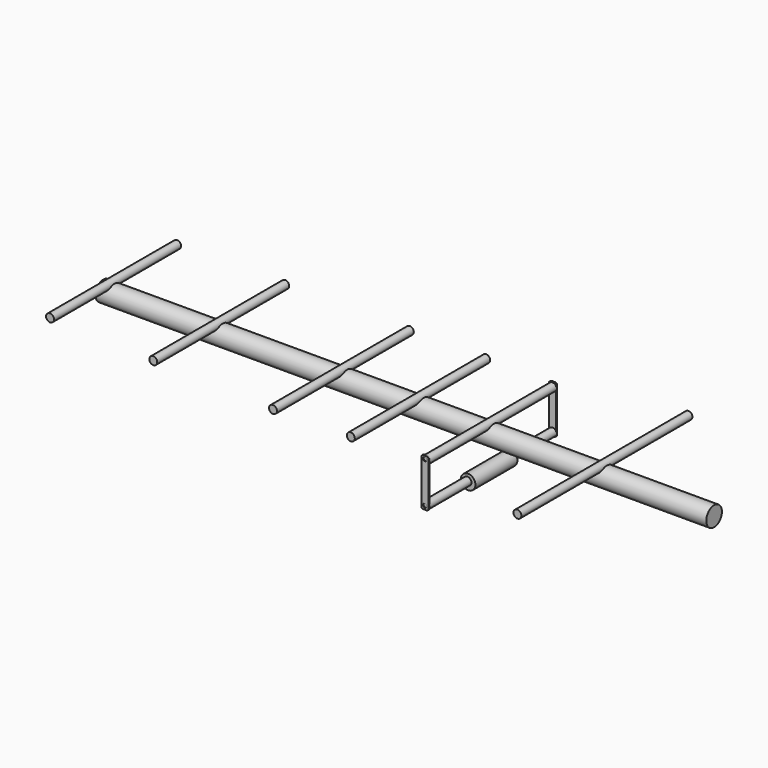
from build123d import *

# Parameters (mm, degrees)
CYLINDER001_R             = 6.5
CYLINDER001_DEPTH         = 350
CYLINDER002_R             = 6.5
CYLINDER002_DEPTH         = 277
CYLINDER003_R             = 6.5
CYLINDER003_DEPTH         = 260
CYLINDER004_R             = 6.5
CYLINDER004_DEPTH         = 260
CYLINDER006_R             = 3
CYLINDER006_DEPTH         = 4
CYLINDER005_R             = 3
CYLINDER005_DEPTH         = 4
BOX_W                     = 78
BOX_H                     = 2
BOX_DEPTH                 = 12
FILLET_R                  = 3.2
CYLINDER008_R             = 3
CYLINDER008_DEPTH         = 4
CYLINDER007_R             = 3
CYLINDER007_DEPTH         = 4
BOX001_W                  = 78
BOX001_H                  = 2
BOX001_DEPTH              = 12
FILLET001_R               = 3.2
CYLINDER009_R             = 12
CYLINDER009_DEPTH         = 86
CYLINDER010_R             = 6.5
CYLINDER010_DEPTH         = 280
CYLINDER011_R             = 6.5
CYLINDER011_DEPTH         = 270
CYLINDER012_R             = 6.5
CYLINDER012_DEPTH         = 260
CYLINDER_R                = 16
CYLINDER_DEPTH            = 1000
FUSION002_PLACEMENT_ANGLE = 90


with BuildPart() as reflector:
    # Cylinder001 → Cylinder001 (new body)
    with BuildSketch(Plane(origin=(15, 175, 16), x_dir=(-1, 0, 0), z_dir=(0, -1, 0))):
        Circle(CYLINDER001_R)
    extrude(amount=CYLINDER001_DEPTH)


with BuildPart() as director1:
    # Cylinder002 → Cylinder002 (new body)
    with BuildSketch(Plane(origin=(15, 136, 316), x_dir=(-1, 0, 0), z_dir=(0, -1, 0))):
        Circle(CYLINDER002_R)
    extrude(amount=CYLINDER002_DEPTH)


with BuildPart() as obj1:
    # Cylinder003 → Cylinder003 (new body)
    with BuildSketch(Plane(origin=(15, 128, 201), x_dir=(-1, 0, 0), z_dir=(0, -1, 0))):
        Circle(CYLINDER003_R)
    extrude(amount=CYLINDER003_DEPTH)


with BuildPart() as obj2:
    # Cylinder004 → Cylinder004 (new body)
    with BuildSketch(Plane(origin=(-50, 128, 201), x_dir=(-1, 0, 0), z_dir=(0, -1, 0))):
        Circle(CYLINDER004_R)
    extrude(amount=CYLINDER004_DEPTH)


with BuildPart() as cilindro001:
    # Cylinder006 → Cylinder006 (new body)
    with BuildSketch(Plane(origin=(17, 132, 201), x_dir=(1, 0, 0), z_dir=(0, -1, 0))):
        Circle(CYLINDER006_R)
    extrude(amount=CYLINDER006_DEPTH)


with BuildPart() as fusion:
    # Cylinder005 → Cylinder005 (new body)
    with BuildSketch(Plane(origin=(-50, 132, 201), x_dir=(1, 0, 0), z_dir=(0, -1, 0))):
        Circle(CYLINDER005_R)
    extrude(amount=CYLINDER005_DEPTH)

    # Fusion: union Cilindro001
    add(cilindro001.part)


with BuildPart() as union:
    # Box → Box (new body)
    with BuildSketch(Plane(origin=(-56, 129, 195), x_dir=(1, 0, 0), z_dir=(0, 0, 1))):
        with Locations((39, 1)):
            Rectangle(BOX_W, BOX_H)
    extrude(amount=BOX_DEPTH)

    # Cut: cut Fusion
    add(fusion.part, mode=Mode.SUBTRACT)

    # Fillet
    fillet_edges = [union.edges().sort_by_distance(p)[0] for p in [
        (-56, 130, 207),
        (-56, 130, 195),
        (22, 130, 207),
        (22, 130, 195),
    ]]
    fillet(fillet_edges, radius=FILLET_R)


with BuildPart() as union_1:
    # Fillet placement: moved
    add(union.part.moved(Location((0, -1, 0))))


with BuildPart() as cilindro003:
    # Cylinder008 → Cylinder008 (new body)
    with BuildSketch(Plane(origin=(17, 132, 201), x_dir=(1, 0, 0), z_dir=(0, -1, 0))):
        Circle(CYLINDER008_R)
    extrude(amount=CYLINDER008_DEPTH)


with BuildPart() as fusion001:
    # Cylinder007 → Cylinder007 (new body)
    with BuildSketch(Plane(origin=(-50, 132, 201), x_dir=(1, 0, 0), z_dir=(0, -1, 0))):
        Circle(CYLINDER007_R)
    extrude(amount=CYLINDER007_DEPTH)

    # Fusion001: union Cilindro003
    add(cilindro003.part)


with BuildPart() as union001:
    # Box001 → Box001 (new body)
    with BuildSketch(Plane(origin=(-56, 129, 195), x_dir=(1, 0, 0), z_dir=(0, 0, 1))):
        with Locations((39, 1)):
            Rectangle(BOX001_W, BOX001_H)
    extrude(amount=BOX001_DEPTH)

    # Cut001: cut Fusion001
    add(fusion001.part, mode=Mode.SUBTRACT)

    # Fillet001
    fillet001_edges = [union001.edges().sort_by_distance(p)[0] for p in [
        (-56, 130, 207),
        (-56, 130, 195),
        (22, 130, 207),
        (22, 130, 195),
    ]]
    fillet(fillet001_edges, radius=FILLET001_R)


with BuildPart() as union001_1:
    # Fillet001 placement: moved
    add(union001.part.moved(Location((0, -262, 0))))


with BuildPart() as cilindro004:
    # Cylinder009 → Cylinder009 (new body)
    with BuildSketch(Plane(origin=(-51, 40, 200), x_dir=(1, 0, 0), z_dir=(0, -1, 0))):
        Circle(CYLINDER009_R)
    extrude(amount=CYLINDER009_DEPTH)


with BuildPart() as director002:
    # Cylinder010 → Cylinder010 (new body)
    with BuildSketch(Plane(origin=(15, 136, 441), x_dir=(-1, 0, 0), z_dir=(0, -1, 0))):
        Circle(CYLINDER010_R)
    extrude(amount=CYLINDER010_DEPTH)


with BuildPart() as director003:
    # Cylinder011 → Cylinder011 (new body)
    with BuildSketch(Plane(origin=(15, 136, 645), x_dir=(-1, 0, 0), z_dir=(0, -1, 0))):
        Circle(CYLINDER011_R)
    extrude(amount=CYLINDER011_DEPTH)


with BuildPart() as director004:
    # Cylinder012 → Cylinder012 (new body)
    with BuildSketch(Plane(origin=(15, 136, 822), x_dir=(-1, 0, 0), z_dir=(0, -1, 0))):
        Circle(CYLINDER012_R)
    extrude(amount=CYLINDER012_DEPTH)


with BuildPart() as obj3:
    # Cylinder → Cylinder (new body)
    with BuildSketch(Plane.XY.offset(-166)):
        Circle(CYLINDER_R)
    extrude(amount=CYLINDER_DEPTH)

    # Fusion002: union Reflector, Director1, obj1, obj2, Union, Union001, Cilindro004, Director002, Director003, Director004
    add(reflector.part)
    add(director1.part)
    add(obj1.part)
    add(obj2.part)
    add(union_1.part)
    add(union001_1.part)
    add(cilindro004.part)
    add(director002.part)
    add(director003.part)
    add(director004.part)


with BuildPart() as obj3_1:
    # Fusion002 placement: moved
    add(obj3.part.moved(Location((-166, 0, 0))).rotate(Axis((-166, 0, 0), (0, -1, 0)), FUSION002_PLACEMENT_ANGLE))


solid = obj3_1.part
